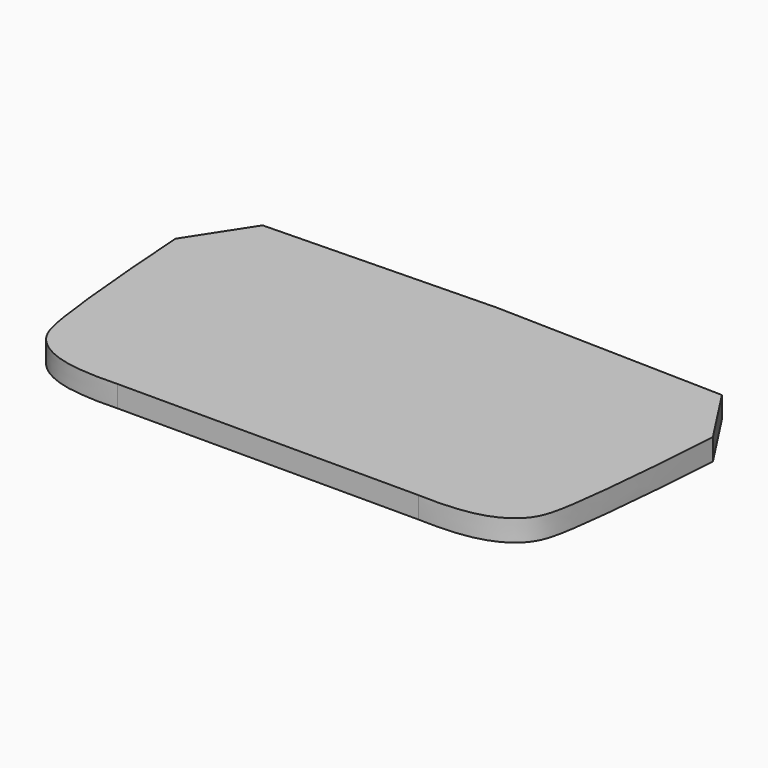
from build123d import *

# Parameters (mm, degrees)
F1_DEPTH = 8


with BuildPart() as f1:
    # F0 (on Top) → F1 (new body)
    with BuildSketch(Plane.XY):
        with BuildLine():
            add(Edge.make_bspline(
                [(-55.9775038504, -49.4371022909), (-58.4830912872, -49.616262939), (-76.4480843255, -50.0501402472), (-91.0149698881, -41.7496985665), (-95.5666139403, -26.2466409366), (-98.8370941522, 13.8326735183), (-100, 32.4985963037)],
                knots=[0, 0, 0, 0, 0.2186386179, 0.4195365836, 0.613504442, 1, 1, 1, 1], degree=3))
            Line((-55.9775038504, -49.4371022909), (0, -49.4371022909))
            Line((0, -49.4371022909), (55.9775038504, -49.4371022909))
            add(Edge.make_bspline(
                [(55.9775038504, -49.4371022909), (58.4830912872, -49.616262939), (76.4480843255, -50.0501402472), (91.0149698881, -41.7496985665), (95.5666139403, -26.2466409366), (98.8370941522, 13.8326735183), (100, 32.4985963037)],
                knots=[0, 0, 0, 0, 0.2186386179, 0.4195365836, 0.613504442, 1, 1, 1, 1], degree=3))
            Line((100, 32.4985963037), (85.4776766221, 54.8676448254))
            Line((85.4776766221, 54.8676448254), (0, 56.9533756417))
            Line((0, 56.9533756417), (-85.4776766221, 54.8676448254))
            Line((-85.4776766221, 54.8676448254), (-100, 32.4985963037))
        make_face()
    extrude(amount=F1_DEPTH)


solid = f1.part
